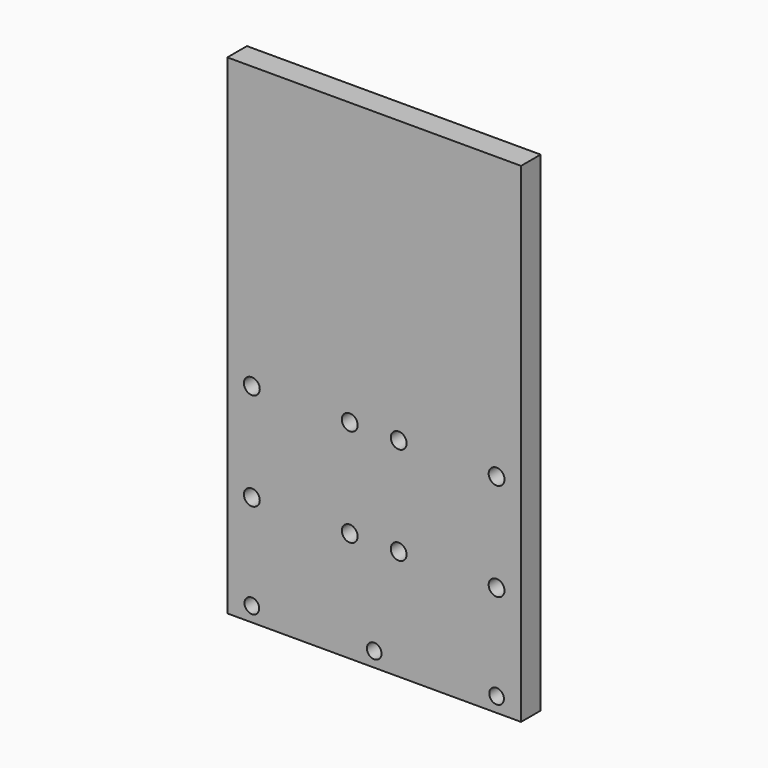
from build123d import *

# Parameters (mm, degrees)
F0_W     = 120
F0_H     = 200
F0_R     = 3
F0_R_2   = 3.24
F1_DEPTH = 10


with BuildPart() as f1:
    # F0 (on Front) → F1 (new body)
    with BuildSketch(Plane.XZ):
        Rectangle(F0_W, F0_H)
        with Locations((-50, -94)):
            Circle(F0_R, mode=Mode.SUBTRACT)
        with Locations((-50, -55)):
            Circle(F0_R_2, mode=Mode.SUBTRACT)
        with Locations((-10, -55)):
            Circle(F0_R_2, mode=Mode.SUBTRACT)
        with Locations((-50, -15)):
            Circle(F0_R_2, mode=Mode.SUBTRACT)
        with Locations((-10, -15)):
            Circle(F0_R_2, mode=Mode.SUBTRACT)
        with Locations((0, -94)):
            Circle(F0_R, mode=Mode.SUBTRACT)
        with Locations((10, -55)):
            Circle(F0_R_2, mode=Mode.SUBTRACT)
        with Locations((50, -94)):
            Circle(F0_R, mode=Mode.SUBTRACT)
        with Locations((50, -55)):
            Circle(F0_R_2, mode=Mode.SUBTRACT)
        with Locations((10, -15)):
            Circle(F0_R_2, mode=Mode.SUBTRACT)
        with Locations((50, -15)):
            Circle(F0_R_2, mode=Mode.SUBTRACT)
    extrude(amount=F1_DEPTH)


solid = f1.part
